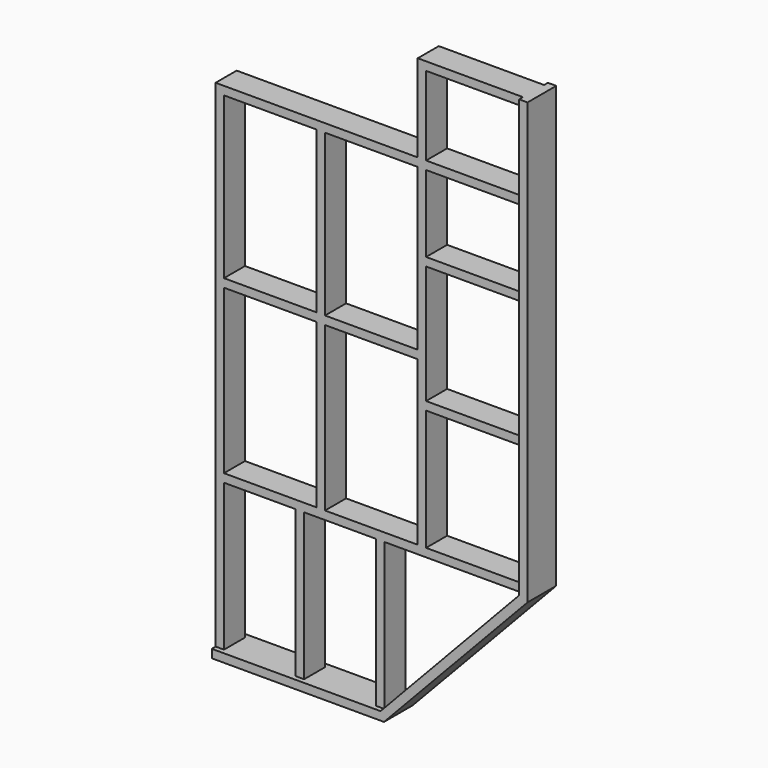
from build123d import *

# Parameters (mm, degrees)
F1_DEPTH = 25.4
F2_DEPTH = 165.1
F0_W     = 514.35
F0_H     = 44.45
F0_W_2   = 44.45
F0_H_2   = 780.411792
F0_W_3   = 492.125
F3_DEPTH = 139.7


with BuildPart() as f1:
    # F0 (on Front) → F1 (new body)
    with BuildSketch(Plane.XZ):
        Polygon((-648.649293, -490.826136), (-630.2375, -535.276136), (131.7625, 271.173864), (87.3125, 289.585656), align=None)
        Polygon((87.3125, 289.585656), (131.7625, 271.173864), (131.7625, 2607.973864), (87.3125, 2607.973864), (87.3125, 2563.523864), (87.3125, 2144.423864), (87.3125, 2099.973864), (87.3125, 1693.573864), (87.3125, 1649.123864), (87.3125, 1020.092864), (87.3125, 975.642864), (87.3125, 334.035656), align=None)
        Polygon((-1544.6375, -490.826136), (-1544.6375, -535.276136), (-630.2375, -535.276136), (-648.649293, -490.826136), (-693.099293, -490.826136), (-1074.7375, -490.826136), (-1119.1875, -490.826136), (-1500.1875, -490.826136), align=None)
    extrude(amount=F1_DEPTH)

    # F1_face (on face) → F2 (join)
    with BuildSketch(Plane(origin=(-236.089118, 0, 641.088849), x_dir=(1, 0, 0), z_dir=(0, 1, 0))):
        Polygon((367.851618, 369.914985), (-394.148382, 1176.364985), (-1308.548382, 1176.364985), (-1308.548382, 1131.914985), (-412.560175, 1131.914985), (323.401618, 351.503193), (323.401618, -1966.885015), (367.851618, -1966.885015), align=None)
    extrude(amount=F2_DEPTH)

    # F0 (on Front) → F3 (join)
    with BuildSketch(Plane.XZ):
        Polygon((-471.4875, 2607.973864), (-471.4875, 2144.423864), (-471.4875, 2099.973864), (-471.4875, 1245.517864), (-471.4875, 1201.067864), (-471.4875, 334.035656), (-427.0375, 334.035656), (-427.0375, 975.642864), (-427.0375, 1020.092864), (-427.0375, 1649.123864), (-427.0375, 1693.573864), (-427.0375, 2099.973864), (-427.0375, 2144.423864), (-427.0375, 2563.523864), (-427.0375, 2607.973864), align=None)
        with Locations((-169.8625, 997.867864)):
            Rectangle(F0_W, F0_H)
        with Locations((-169.8625, 1671.348864)):
            Rectangle(F0_W, F0_H)
        Polygon((-1500.1875, 334.035656), (-1500.1875, 289.585656), (-1119.1875, 289.585656), (-1074.7375, 289.585656), (-693.099293, 289.585656), (-648.649293, 289.585656), (87.3125, 289.585656), (87.3125, 334.035656), (-427.0375, 334.035656), (-471.4875, 334.035656), (-963.6125, 334.035656), (-1008.0625, 334.035656), align=None)
        with Locations((-670.874293, -100.62024)):
            Rectangle(F0_W_2, F0_H_2)
        Polygon((-1544.6375, 2099.973864), (-1544.6375, -490.826136), (-1500.1875, -490.826136), (-1500.1875, 289.585656), (-1500.1875, 334.035656), (-1500.1875, 1201.067864), (-1500.1875, 1245.517864), (-1500.1875, 2099.973864), align=None)
        with Locations((-1096.9625, -100.62024)):
            Rectangle(F0_W_2, F0_H_2)
        Polygon((-963.6125, 2099.973864), (-1008.0625, 2099.973864), (-1008.0625, 1245.517864), (-1008.0625, 1201.067864), (-1008.0625, 334.035656), (-963.6125, 334.035656), (-963.6125, 1201.067864), (-963.6125, 1245.517864), align=None)
        with Locations((-1254.125, 1223.292864)):
            Rectangle(F0_W_3, F0_H)
        with Locations((-717.55, 1223.292864)):
            Rectangle(F0_W_3, F0_H)
        with Locations((-169.8625, 2122.198864)):
            Rectangle(F0_W, F0_H)
        Polygon((-1544.6375, 2144.423864), (-1544.6375, 2099.973864), (-1500.1875, 2099.973864), (-1008.0625, 2099.973864), (-963.6125, 2099.973864), (-471.4875, 2099.973864), (-471.4875, 2144.423864), align=None)
        with Locations((-169.8625, 2585.748864)):
            Rectangle(F0_W, F0_H)
    extrude(amount=-F3_DEPTH)


solid = f1.part
